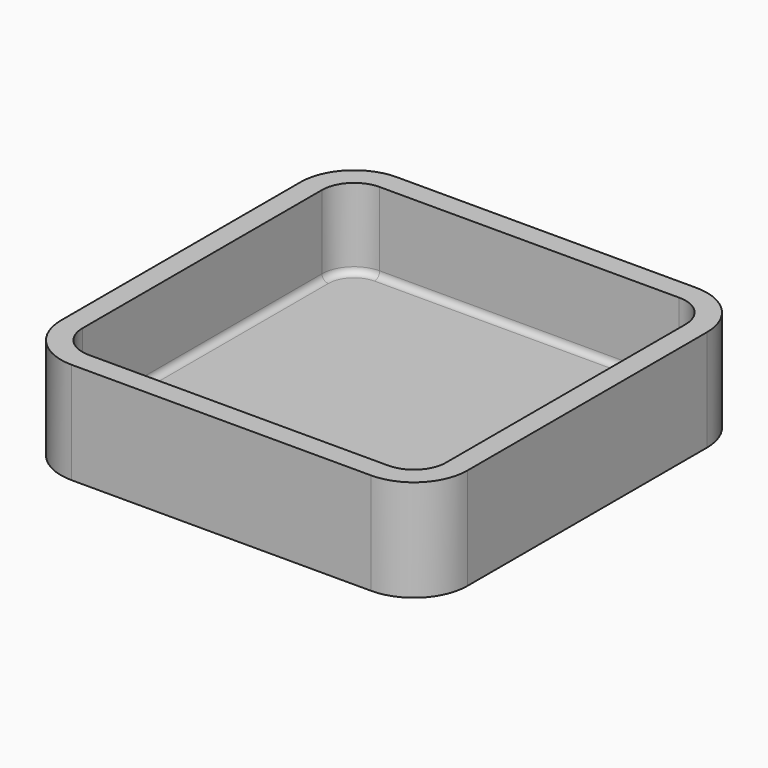
from build123d import *

# Parameters (mm, degrees)
F0_W     = 76
F0_H     = 76
F0_W_2   = 68
F0_H_2   = 68
F1_DEPTH = 4
F2_DEPTH = 19
F3_R     = 6
F4_R     = 10
F5_R     = 1.2


with BuildPart() as f1:
    # F0 (on Top) → F1 (new body)
    with BuildSketch(Plane.XY):
        Rectangle(F0_W, F0_H)
        Rectangle(F0_W_2, F0_H_2, mode=Mode.SUBTRACT)
        Rectangle(F0_W_2, F0_H_2)
    extrude(amount=F1_DEPTH)

    # F0 (on Top) → F2 (join)
    with BuildSketch(Plane.XY):
        Rectangle(F0_W, F0_H)
        Rectangle(F0_W_2, F0_H_2, mode=Mode.SUBTRACT)
    extrude(amount=F2_DEPTH)

    # F3
    f3_edges = [f1.edges().sort_by_distance(p)[0] for p in [
        (34, 34, 11.5),
        (34, -34, 11.5),
        (-34, -34, 11.5),
        (-34, 34, 11.5),
    ]]
    fillet(f3_edges, radius=F3_R)

    # F4
    f4_edges = [f1.edges().sort_by_distance(p)[0] for p in [
        (-38, -38, 9.5),
        (38, -38, 9.5),
        (38, 38, 9.5),
        (-38, 38, 9.5),
    ]]
    fillet(f4_edges, radius=F4_R)

    # F5
    f5_edges = [f1.edges().sort_by_distance(p)[0] for p in [
        (34, 0, 4),
    ]]
    fillet(f5_edges, radius=F5_R)


solid = f1.part
